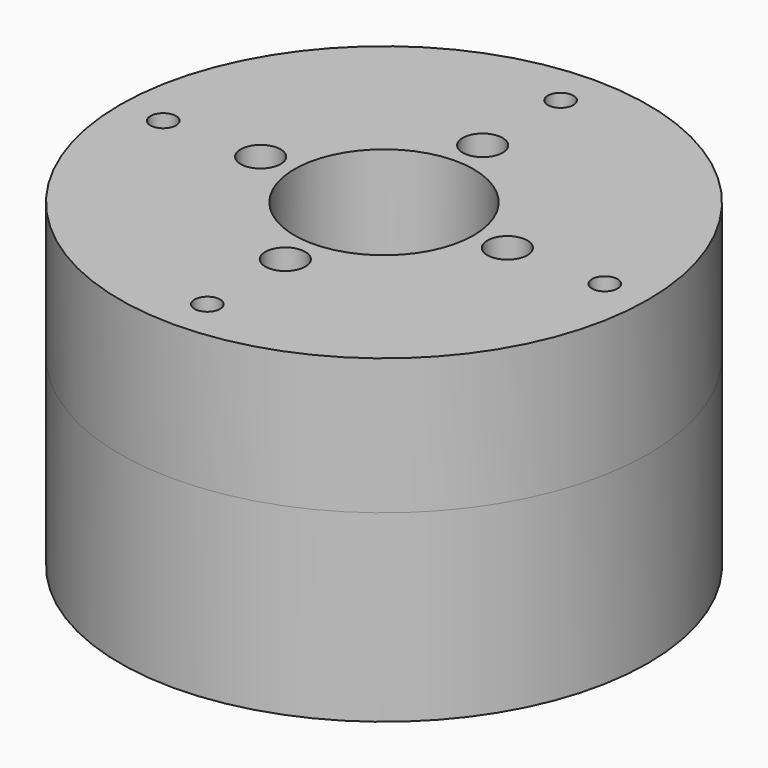
from build123d import *

# Parameters (mm, degrees)
F0_R     = 33
F0_R_2   = 11.2
F1_DEPTH = 23
F2_R     = 4.5
F3_DEPTH = 23.001
F4_DEPTH = 17
F5_R     = 2.5
F5_R_2   = 1.6
F6_DEPTH = 40.001


with BuildPart() as f1:
    # F0 (on Top) → F1 (new body)
    with BuildSketch(Plane.XY):
        Circle(F0_R)
        Circle(F0_R_2, mode=Mode.SUBTRACT)
        Circle(F0_R_2)
    extrude(amount=-F1_DEPTH)

    # F2 (on face) → F3 (cut, through all)
    with BuildSketch(Plane.XY):
        Circle(F2_R)
    extrude(amount=-F3_DEPTH, mode=Mode.SUBTRACT)

    # F0 (on Top) → F4 (join)
    with BuildSketch(Plane.XY):
        Circle(F0_R)
        Circle(F0_R_2, mode=Mode.SUBTRACT)
    extrude(amount=F4_DEPTH)

    # F5 (on face) → F6 (cut, through all)
    with BuildSketch(Plane.XY.offset(17)):
        with Locations((15.42, 0)):
            Circle(F5_R)
        with Locations((0, -15.42)):
            Circle(F5_R)
        with Locations((0, 15.42)):
            Circle(F5_R)
        with Locations((-15.42, 0)):
            Circle(F5_R)
        with Locations((27.6, 0)):
            Circle(F5_R_2)
        with Locations((0, 27.6)):
            Circle(F5_R_2)
        with Locations((0, -27.6)):
            Circle(F5_R_2)
        with Locations((-27.6, 0)):
            Circle(F5_R_2)
    extrude(amount=-F6_DEPTH, mode=Mode.SUBTRACT)


solid = f1.part
